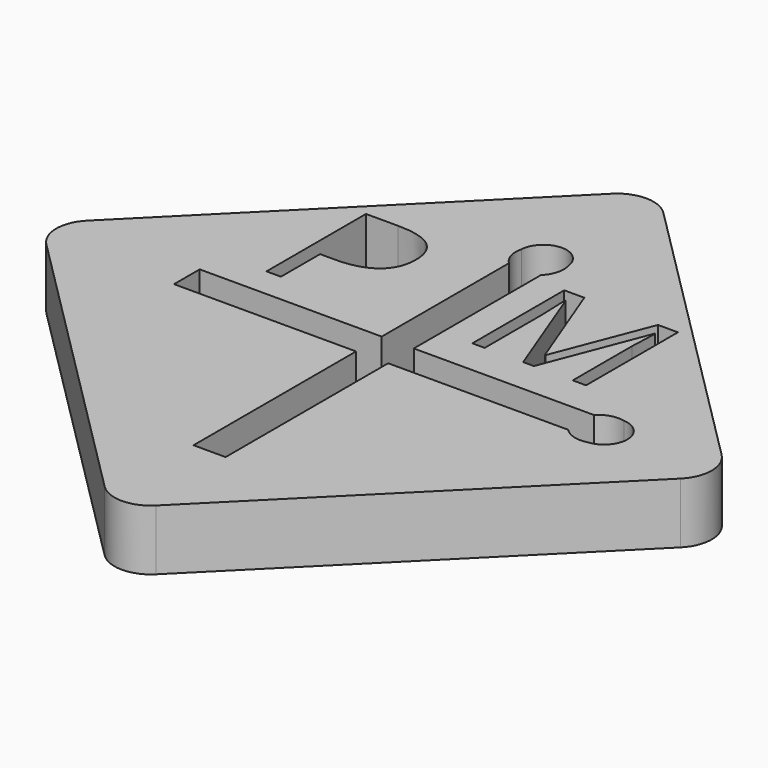
from build123d import *

# Parameters (mm, degrees)
F1_DEPTH = 2.5
F2_R     = 0.85
F3_DEPTH = 12.5


with BuildPart() as f1:
    # F0 (on Top) → F1 (new body)
    with BuildSketch(Plane.XY):
        with BuildLine():
            Line((13.081475452, -13.081475452), (1.0606601718, -1.0606601718))
            ThreePointArc((1.0606601718, -1.0606601718), (0, -0.6213203436), (-1.0606601718, -1.0606601718))
            Line((-1.0606601718, -1.0606601718), (-13.081475452, -13.081475452))
            ThreePointArc((-13.081475452, -13.081475452), (-13.5208152802, -14.1421356237), (-13.081475452, -15.2027957955))
            Line((-13.081475452, -15.2027957955), (-1.0606601718, -27.2236110757))
            ThreePointArc((-1.0606601718, -27.2236110757), (0, -27.6629509039), (1.0606601718, -27.2236110757))
            Line((1.0606601718, -27.2236110757), (13.081475452, -15.2027957955))
            ThreePointArc((13.081475452, -15.2027957955), (13.5208152802, -14.1421356237), (13.081475452, -13.081475452))
        make_face()
        with BuildLine():
            add(Edge.make_bspline(
                [(-5.0351947703, -7.1148621023), (-3.1127377117, -7.1148621023), (-3.1127377117, -8.6094826309)],
                knots=[0, 0, 0, 1, 1, 1], degree=2))
            add(Edge.make_bspline(
                [(-3.1127377117, -8.6094826309), (-3.1127377117, -9.3887964152), (-3.6444453152, -9.8082109662)],
                knots=[0, 0, 0, 1, 1, 1], degree=2))
            add(Edge.make_bspline(
                [(-3.6444453152, -9.8082109662), (-4.1761529188, -10.2276255173), (-5.1654547112, -10.2276255173)],
                knots=[0, 0, 0, 1, 1, 1], degree=2))
            Line((-5.1654547112, -10.2276255173), (-5.7695913335, -10.2276255173))
            Line((-5.7695913335, -10.2276255173), (-5.7695913335, -12.2455316704))
            Line((-5.7695913335, -12.2455316704), (-6.3658674423, -12.2455316704))
            Line((-6.3658674423, -12.2455316704), (-6.3658674423, -7.1148621023))
            Line((-6.3658674423, -7.1148621023), (-5.0351947703, -7.1148621023))
        make_face(mode=Mode.SUBTRACT)
        with BuildLine():
            Line((-8.1334756687, -14.8039748892), (-8.1334756687, -13.4802963582))
            Line((-8.1334756687, -13.4802963582), (-0.6236797201, -13.4802963582))
            Line((-0.6236797201, -13.4802963582), (-0.6236797201, -6.9198086858))
            ThreePointArc((-0.6236797201, -6.9198086858), (-0.9032194318, -6.4583786209), (-0.9135835525, -5.9189782686))
            ThreePointArc((-0.9135835525, -5.9189782686), (0.0168397474, -5.0141534426), (0.9868078824, -5.876451129))
            ThreePointArc((0.9868078824, -5.876451129), (0.9900106564, -6.4384308628), (0.6999988109, -6.9198086858))
            Line((0.6999988109, -6.9198086858), (0.6999988109, -13.4802963582))
            Line((0.6999988109, -13.4802963582), (8.1334756687, -13.4802963582))
            ThreePointArc((8.1334756687, -13.4802963582), (8.5949057336, -13.2007566465), (9.134306086, -13.1903925258))
            ThreePointArc((9.134306086, -13.1903925258), (10.0391309119, -14.1208158258), (9.1768332255, -15.0907839607))
            ThreePointArc((9.1768332255, -15.0907839607), (8.6148534917, -15.0939867347), (8.1334756687, -14.8039748892))
            Line((8.1334756687, -14.8039748892), (0.6999988109, -14.8039748892))
            Line((0.6999988109, -14.8039748892), (0.6999988109, -23.1867600232))
            Line((0.6999988109, -23.1867600232), (-0.6236797201, -23.1867600232))
            Line((-0.6236797201, -23.1867600232), (-0.6236797201, -14.8039748892))
            Line((-0.6236797201, -14.8039748892), (-8.1334756687, -14.8039748892))
        make_face(mode=Mode.SUBTRACT)
        with BuildLine():
            Line((4.4893827087, -12.0222926794), (4.0456231809, -12.0222926794))
            Line((4.0456231809, -12.0222926794), (2.4385501247, -7.8231663068))
            Line((2.4385501247, -7.8231663068), (2.4126295915, -7.8231663068))
            add(Edge.make_bspline(
                [(2.4126295915, -7.8231663068), (2.4582497299, -8.3218773648), (2.4582497299, -9.0092899044)],
                knots=[0, 0, 0, 1, 1, 1], degree=2))
            Line((2.4582497299, -9.0092899044), (2.4582497299, -12.0222926794))
            Line((2.4582497299, -12.0222926794), (1.9491704586, -12.0222926794))
            Line((1.9491704586, -12.0222926794), (1.9491704586, -7.2850560383))
            Line((1.9491704586, -7.2850560383), (2.7786275198, -7.2850560383))
            Line((2.7786275198, -7.2850560383), (4.2789079794, -11.1928356181))
            Line((4.2789079794, -11.1928356181), (4.3048285126, -11.1928356181))
            Line((4.3048285126, -11.1928356181), (5.817550828, -7.2850560383))
            Line((5.817550828, -7.2850560383), (6.6407869613, -7.2850560383))
            Line((6.6407869613, -7.2850560383), (6.6407869613, -12.0222926794))
            Line((6.6407869613, -12.0222926794), (6.0902348369, -12.0222926794))
            Line((6.0902348369, -12.0222926794), (6.0902348369, -8.969890694))
            add(Edge.make_bspline(
                [(6.0902348369, -8.969890694), (6.0902348369, -8.4452591027), (6.1358549753, -7.8293872347)],
                knots=[0, 0, 0, 1, 1, 1], degree=2))
            Line((6.1358549753, -7.8293872347), (6.1099344421, -7.8293872347))
            Line((6.1099344421, -7.8293872347), (4.4893827087, -12.0222926794))
        make_face(mode=Mode.SUBTRACT)
    extrude(amount=F1_DEPTH)

    # F2 (on Right) → F3 (cut, symmetric)
    with BuildSketch(Plane.YZ):
        with Locations((-2.4908210296, 1.292226194)):
            Circle(F2_R)
    extrude(amount=F3_DEPTH, both=True, mode=Mode.SUBTRACT)


solid = f1.part
